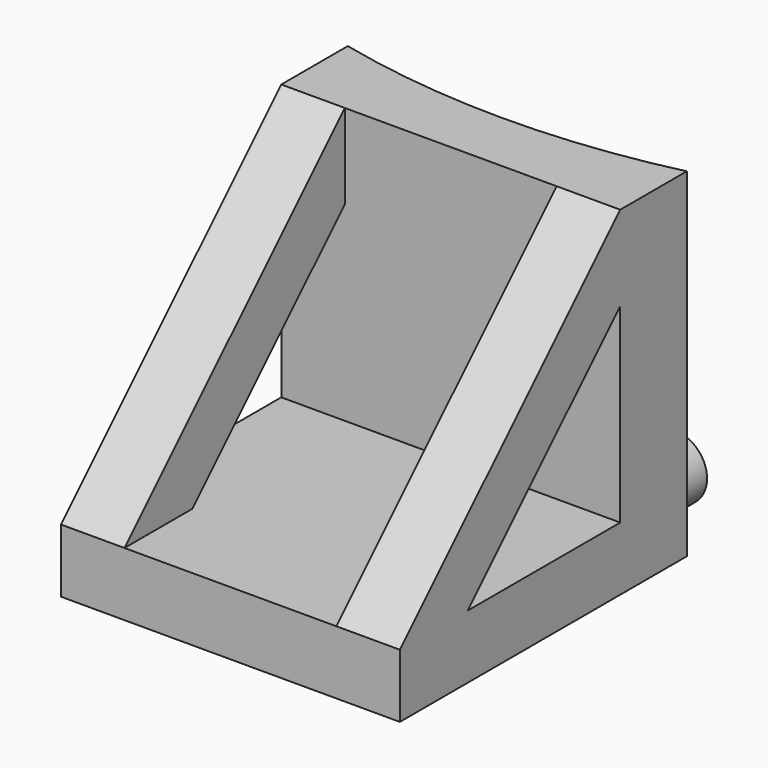
from build123d import *

# Parameters (mm, degrees)
F1_DEPTH      = 50.8
F3_DEPTH      = 15.875
F3_DEPTH_BACK = 15.875
F4_DEPTH      = 25.4
F4_DEPTH_BACK = 25.4
F5_R          = 4.7625
F6_DEPTH      = 12.7


with BuildPart() as f1:
    # F0 (on Top) → F1 (new body)
    with BuildSketch(Plane.XY):
        with BuildLine():
            Line((-25.4, -50.8), (25.4, -50.8))
            Line((25.4, -50.8), (25.4, 2.9417960125))
            ThreePointArc((25.4, 2.9417960125), (0, 0), (-25.4, 2.9417960125))
            Line((-25.4, 2.9417960125), (-25.4, -50.8))
        make_face()
    extrude(amount=F1_DEPTH)

    # F2 (on Right) → F3 (cut, two sides)
    with BuildSketch(Plane.YZ) as f3_sk:
        Polygon((-9.525, 50.8), (-50.8, 9.525), (-38.1, 9.525), (-9.525, 38.1), align=None)
        Polygon((-9.525, 38.1), (-38.1, 9.525), (-9.525, 9.525), align=None)
        Polygon((-50.8, 50.8), (-50.8, 9.525), (-9.525, 50.8), align=None)
    extrude(amount=F3_DEPTH, mode=Mode.SUBTRACT)
    extrude(f3_sk.sketch, amount=-F3_DEPTH_BACK, mode=Mode.SUBTRACT)

    # F2 (on Right) → F4 (cut, two sides)
    with BuildSketch(Plane.YZ) as f4_sk:
        Polygon((-9.525, 38.1), (-38.1, 9.525), (-9.525, 9.525), align=None)
        Polygon((-50.8, 50.8), (-50.8, 9.525), (-9.525, 50.8), align=None)
    extrude(amount=-F4_DEPTH, mode=Mode.SUBTRACT)
    extrude(f4_sk.sketch, amount=F4_DEPTH_BACK, mode=Mode.SUBTRACT)

    # F5 (on Front) → F6 (join)
    with BuildSketch(Plane.XZ):
        with Locations((-15.875, 4.7625)):
            Circle(F5_R)
        with Locations((15.875, 4.7625)):
            Circle(F5_R)
    extrude(amount=-F6_DEPTH)


solid = f1.part
